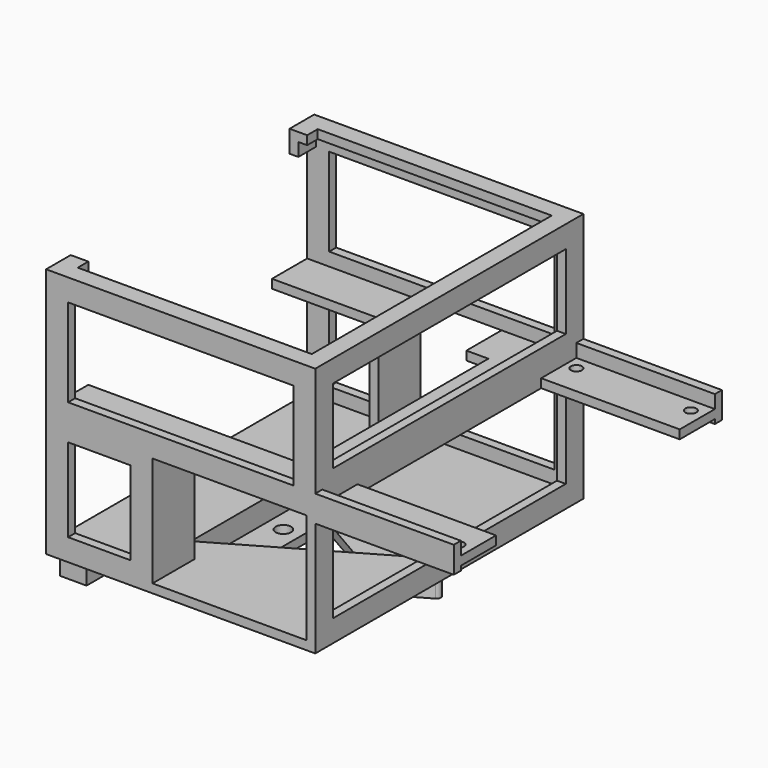
from build123d import *

# Parameters (mm, degrees)
PAD_DEPTH       = 5
FILLET_R        = 1
FILLET001_R     = 1
FILLET002_R     = 1
SKETCH001_R     = 1.75
PAD001_DEPTH    = 2
SKETCH002_W     = 61.2
SKETCH002_H     = 76.2
PAD002_DEPTH    = 2
PAD003_DEPTH    = 55
SKETCH004_W     = 35
SKETCH004_H     = 25
SKETCH004_W_2   = 14.2
SKETCH004_H_2   = 19
SKETCH004_W_3   = 51.2
SKETCH004_H_3   = 20
POCKET_DEPTH    = 2
SKETCH005_W     = 14.2
SKETCH005_H     = 19
SKETCH005_W_2   = 51.2
SKETCH005_H_2   = 20
POCKET001_DEPTH = 2
SKETCH006_W     = 66.2
SKETCH006_H     = 22
SKETCH006_H_2   = 17
POCKET002_DEPTH = 2
SKETCH007_W     = 24.2
SKETCH007_H     = 10
SKETCH007_W_2   = 31.5
SKETCH007_H_2   = 12
SKETCH007_R     = 1.25
PAD004_DEPTH    = 2
SKETCH008_W     = 31.5
SKETCH008_H     = 2
PAD005_DEPTH    = 3
PAD006_DEPTH    = 2
SKETCH010_W     = 5
SKETCH010_H     = 3
PAD007_DEPTH    = 2
SKETCH011_W     = 6
SKETCH011_H     = 6
SKETCH011_R     = 1.25
PAD008_DEPTH    = 6
SKETCH012_W     = 2
SKETCH012_H     = 10
PAD009_DEPTH    = 25


with BuildPart() as part:
    # Sketch → Pad (new body)
    with BuildSketch(Plane.XY):
        Polygon((28.537386, 0), (-14.268693, 24.714102), (-14.268693, -24.714102), align=None)
        Polygon((24.537386, 0), (-12.268693, 21.25), (-12.268693, -21.25), align=None, mode=Mode.SUBTRACT)
    extrude(amount=PAD_DEPTH)

    # Fillet
    fillet_edges = [part.edges().sort_by_distance(p)[0] for p in [
        (-14.268693, -24.714102, 2.5),
    ]]
    fillet(fillet_edges, radius=FILLET_R)

    # Fillet001
    fillet001_edges = [part.edges().sort_by_distance(p)[0] for p in [
        (28.537386, 0, 2.5),
    ]]
    fillet(fillet001_edges, radius=FILLET001_R)

    # Fillet002
    fillet002_edges = [part.edges().sort_by_distance(p)[0] for p in [
        (-14.268693, 24.714102, 2.5),
    ]]
    fillet(fillet002_edges, radius=FILLET002_R)

    # Sketch001 (on Face1 of Fillet002) → Pad001 (join)
    with BuildSketch(Plane(origin=(0, 0, 0), x_dir=(1, 0, 0), z_dir=(0, 0, -1))):
        Polygon((24.537386, 0), (-12.268693, 21.25), (-12.268693, -21.25), align=None)
        with Locations((4.134347, 7.160898)):
            Circle(SKETCH001_R, mode=Mode.SUBTRACT)
        with Locations((4.134347, -7.160898)):
            Circle(SKETCH001_R, mode=Mode.SUBTRACT)
        with Locations((-8.268693, 0)):
            Circle(SKETCH001_R, mode=Mode.SUBTRACT)
        Polygon((8.537386, 0), (-4.268693, 7.393594), (-4.268693, -7.393594), align=None, mode=Mode.SUBTRACT)
    extrude(amount=-PAD001_DEPTH)

    # Sketch002 (on Face9 of Pad001) → Pad002 (join)
    with BuildSketch(Plane.XY.offset(5)):
        with Locations((-1.062614, -0.09)):
            Rectangle(SKETCH002_W, SKETCH002_H)
        Polygon((-12.268693, 21.25), (-12.268693, -21.25), (24.537386, 0), align=None, mode=Mode.SUBTRACT)
    extrude(amount=PAD002_DEPTH)

    # Sketch003 (on Face21 of Pad002) → Pad003 (join)
    with BuildSketch(Plane.XY.offset(7)):
        Polygon((-31.662614, 38.01), (29.537386, 38.01), (29.537386, -38.19), (-31.662614, -38.19), (-31.662614, -36.19), (27.537386, -36.19), (27.537386, 36.01), (-31.662614, 36.01), align=None)
    extrude(amount=PAD003_DEPTH)

    # Sketch004 (on Face26 of Pad003) → Pocket (cut)
    with BuildSketch(Plane.XZ.offset(38.19)):
        with Locations((10.037386, 19.5)):
            Rectangle(SKETCH004_W, SKETCH004_H)
        with Locations((-19.562614, 19.5)):
            Rectangle(SKETCH004_W_2, SKETCH004_H_2)
        with Locations((-1.062614, 47)):
            Rectangle(SKETCH004_W_3, SKETCH004_H_3)
    extrude(amount=-POCKET_DEPTH, mode=Mode.SUBTRACT)

    # Sketch005 (on Face21 of Pocket) → Pocket001 (cut)
    with BuildSketch(Plane(origin=(0, 38.01, 0), x_dir=(-1, 0, 0), z_dir=(0, 1, 0))):
        Polygon((-24.537386, 32), (-12.537386, 32), (-12.537386, 34), (7.462614, 34), (7.462614, 32), (7.462614, 10), (-24.537386, 10), align=None)
        with Locations((19.562614, 19.5)):
            Rectangle(SKETCH005_W, SKETCH005_H)
        with Locations((1.062614, 47)):
            Rectangle(SKETCH005_W_2, SKETCH005_H_2)
    extrude(amount=-POCKET001_DEPTH, mode=Mode.SUBTRACT)

    # Sketch006 (on Face25 of Pocket001) → Pocket002 (cut)
    with BuildSketch(Plane.YZ.offset(29.537386)):
        with Locations((-0.09, 21)):
            Rectangle(SKETCH006_W, SKETCH006_H)
        with Locations((-0.09, 48.5)):
            Rectangle(SKETCH006_W, SKETCH006_H_2)
    extrude(amount=-POCKET002_DEPTH, mode=Mode.SUBTRACT)

    # Sketch007 (on Face62 of Pocket002) → Pad004 (join)
    with BuildSketch(Plane(origin=(0, 0, 32), x_dir=(1, 0, 0), z_dir=(0, 0, -1))):
        Polygon((-31.662614, 36.19), (27.537386, 36.19), (27.537386, -36.01), (12.537386, -36.01), (12.537386, -26.01), (17.537386, -26.01), (17.537386, 26.19), (-31.662614, 26.19), align=None)
        with Locations((-19.562614, -31.01)):
            Rectangle(SKETCH007_W, SKETCH007_H)
        with Locations((45.287386, -32.01)):
            Rectangle(SKETCH007_W_2, SKETCH007_H_2)
        with Locations((58.037386, -32.91)):
            Circle(SKETCH007_R, mode=Mode.SUBTRACT)
        with Locations((32.037386, -32.91)):
            Circle(SKETCH007_R, mode=Mode.SUBTRACT)
        with Locations((45.287386, 32.19)):
            Rectangle(SKETCH007_W_2, SKETCH007_H_2)
        with Locations((32.037386, 33.09)):
            Circle(SKETCH007_R, mode=Mode.SUBTRACT)
        with Locations((58.037386, 33.09)):
            Circle(SKETCH007_R, mode=Mode.SUBTRACT)
    extrude(amount=-PAD004_DEPTH)

    # Sketch008 (on Face78 of Pad004) → Pad005 (join, symmetric)
    with BuildSketch(Plane.XY.offset(34)):
        with Locations((45.287386, 37.01)):
            Rectangle(SKETCH008_W, SKETCH008_H)
        with Locations((45.287386, -37.19)):
            Rectangle(SKETCH008_W, SKETCH008_H)
    extrude(amount=PAD005_DEPTH, both=True)

    # Sketch009 (on Face31 of Pad005) → Pad006 (join)
    with BuildSketch(Plane.XY.offset(62)):
        Polygon((-31.662614, 36.01), (27.537386, 36.01), (27.537386, -36.19), (-31.662614, -36.19), (-31.662614, -34.19), (-31.662614, -31.19), (-27.662614, -31.19), (-27.662614, -34.19), (25.537386, -34.19), (25.537386, 34.01), (-27.662614, 34.01), (-27.662614, 31.01), (-31.662614, 31.01), (-31.662614, 34.01), align=None)
    extrude(amount=-PAD006_DEPTH)

    # Sketch010 (on Face24 of Pad006) → Pad007 (join)
    with BuildSketch(Plane(origin=(-31.662614, 0, 0), x_dir=(0, -1, 0), z_dir=(-1, 0, 0))):
        with Locations((-33.51, 58.5)):
            Rectangle(SKETCH010_W, SKETCH010_H)
        with Locations((33.69, 58.5)):
            Rectangle(SKETCH010_W, SKETCH010_H)
    extrude(amount=-PAD007_DEPTH)

    # Sketch011 (on Face17 of Pad007) → Pad008 (join)
    with BuildSketch(Plane(origin=(-31.662614, 0, 0), x_dir=(0, -1, 0), z_dir=(-1, 0, 0))):
        with Locations((31.19, 2)):
            Rectangle(SKETCH011_W, SKETCH011_H)
        with Locations((31.19, 2)):
            Circle(SKETCH011_R, mode=Mode.SUBTRACT)
        with Locations((-8.81, 2)):
            Rectangle(SKETCH011_W, SKETCH011_H)
        with Locations((-8.81, 2)):
            Circle(SKETCH011_R, mode=Mode.SUBTRACT)
    extrude(amount=-PAD008_DEPTH)

    # Sketch012 (on Face119 of Pad008) → Pad009 (join)
    with BuildSketch(Plane(origin=(0, 0, 32), x_dir=(1, 0, 0), z_dir=(0, 0, -1))):
        with Locations((-8.462614, 31.19)):
            Rectangle(SKETCH012_W, SKETCH012_H)
        with Locations((-8.462614, -31.01)):
            Rectangle(SKETCH012_W, SKETCH012_H)
    extrude(amount=PAD009_DEPTH)


solid = part.part
